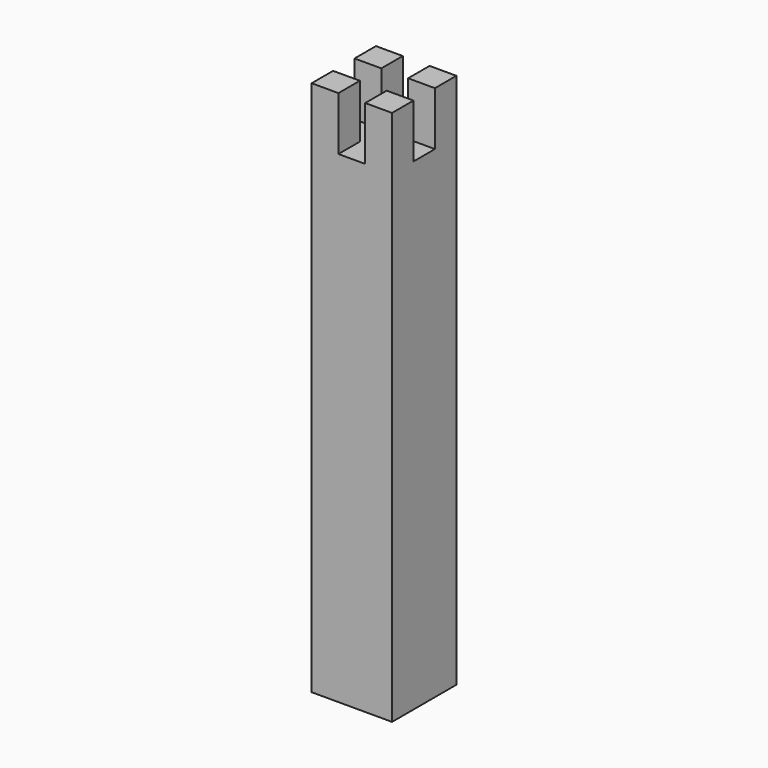
from build123d import *

# Parameters (mm, degrees)
F0_W     = 76.2
F0_H     = 508
F1_DEPTH = 76.2
F3_DEPTH = 50.8


with BuildPart() as f1:
    # F0 (on Front) → F1 (new body)
    with BuildSketch(Plane.XZ):
        Rectangle(F0_W, F0_H)
    extrude(amount=F1_DEPTH)

    # F2 (on face) → F3 (cut)
    with BuildSketch(Plane.XY.offset(254)):
        Polygon((12.7, 0), (-12.7, 0), (-12.7, -25.4), (-38.1, -25.4), (-38.1, -50.8), (-12.7, -50.8), (-12.7, -76.2), (12.7, -76.2), (12.7, -50.8), (38.1, -50.8), (38.1, -25.4), (12.7, -25.4), align=None)
    extrude(amount=-F3_DEPTH, mode=Mode.SUBTRACT)


solid = f1.part
